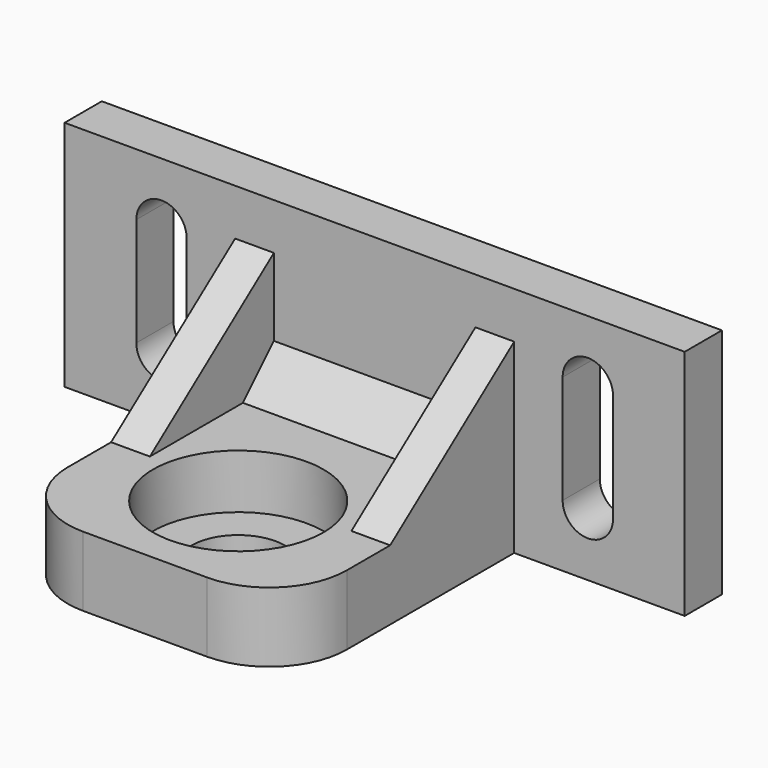
from build123d import *

# Parameters (mm, degrees)
BOX003_W        = 5
BOX003_H        = 20
BOX003_DEPTH    = 15
POCKET004_DEPTH = 5.001
BOX002_W        = 5
BOX002_H        = 20
BOX002_DEPTH    = 15
POCKET003_DEPTH = 5.001
BOX_W           = 80
BOX_H           = 6
BOX_DEPTH       = 30
POCKET002_DEPTH = 6.001
BOX001_W        = 36
BOX001_H        = 37
BOX001_DEPTH    = 9
SKETCH_R        = 11
POCKET_DEPTH    = 7
SKETCH001_R     = 6
POCKET001_DEPTH = 2.001
CHAMFER_SIZE    = 5
FILLET_R        = 10
FILLET001_R     = 10


with BuildPart() as pocket004:
    # Box003 → Box003 (new body)
    with BuildSketch(Plane(origin=(53, -20, 9), x_dir=(1, 0, 0), z_dir=(0, 0, 1))):
        with Locations((2.5, 10)):
            Rectangle(BOX003_W, BOX003_H)
    extrude(amount=BOX003_DEPTH)

    # Sketch005 → Pocket004 (cut, through all)
    with BuildSketch(Plane(origin=(58, -20, 9), x_dir=(0, 1, 0), z_dir=(1, 0, 0))):
        Polygon((0, 0), (20, 15), (0, 15), align=None)
    extrude(amount=-POCKET004_DEPTH, mode=Mode.SUBTRACT)


with BuildPart() as pocket003:
    # Box002 → Box002 (new body)
    with BuildSketch(Plane(origin=(22, -20, 9), x_dir=(1, 0, 0), z_dir=(0, 0, 1))):
        with Locations((2.5, 10)):
            Rectangle(BOX002_W, BOX002_H)
    extrude(amount=BOX002_DEPTH)

    # Sketch004 → Pocket003 (cut, through all)
    with BuildSketch(Plane(origin=(27, -20, 9), x_dir=(0, 1, 0), z_dir=(1, 0, 0))):
        Polygon((20, 15), (0, 0), (0, 15), align=None)
    extrude(amount=-POCKET003_DEPTH, mode=Mode.SUBTRACT)


with BuildPart() as pocket002:
    # Box → Box (new body)
    with BuildSketch(Plane.XY):
        with Locations((40, 3)):
            Rectangle(BOX_W, BOX_H)
    extrude(amount=BOX_DEPTH)

    # Sketch003 → Pocket002 (cut, through all)
    with BuildSketch(Plane.XZ):
        with BuildLine():
            ThreePointArc((15.75, 22), (12.5, 25.25), (9.25, 22))
            Line((9.25, 22), (9.25, 8))
            ThreePointArc((9.25, 8), (12.5, 4.75), (15.75, 8))
            Line((15.75, 22), (15.75, 8))
        make_face()
        with BuildLine():
            ThreePointArc((70.75, 22), (67.5, 25.25), (64.25, 22))
            Line((64.25, 22), (64.25, 8))
            ThreePointArc((64.25, 8), (67.5, 4.75), (70.75, 8))
            Line((70.75, 22), (70.75, 8))
        make_face()
    extrude(amount=-POCKET002_DEPTH, mode=Mode.SUBTRACT)


with BuildPart() as fillet001:
    # Box001 → Box001 (new body)
    with BuildSketch(Plane(origin=(22, -37, 0), x_dir=(1, 0, 0), z_dir=(0, 0, 1))):
        with Locations((18, 18.5)):
            Rectangle(BOX001_W, BOX001_H)
    extrude(amount=BOX001_DEPTH)

    # Sketch → Pocket (cut)
    with BuildSketch(Plane(origin=(22, -37, 9), x_dir=(1, 0, 0), z_dir=(0, 0, 1))):
        with Locations((18, 15)):
            Circle(SKETCH_R)
    extrude(amount=-POCKET_DEPTH, mode=Mode.SUBTRACT)

    # Sketch001 → Pocket001 (cut, through all)
    with BuildSketch(Plane(origin=(22, -37, 2), x_dir=(1, 0, 0), z_dir=(0, 0, 1))):
        with Locations((18, 15)):
            Circle(SKETCH001_R)
    extrude(amount=-POCKET001_DEPTH, mode=Mode.SUBTRACT)

    # Fusion: union Pocket004, Pocket003, Pocket002
    add(pocket004.part)
    add(pocket003.part)
    add(pocket002.part)

    # Chamfer
    chamfer_edges = [fillet001.edges().sort_by_distance(p)[0] for p in [
        (40, 0, 9),
    ]]
    chamfer(chamfer_edges, length=CHAMFER_SIZE)

    # Fillet
    fillet_edges = [fillet001.edges().sort_by_distance(p)[0] for p in [
        (58, -37, 4.5),
    ]]
    fillet(fillet_edges, radius=FILLET_R)

    # Fillet001
    fillet001_edges = [fillet001.edges().sort_by_distance(p)[0] for p in [
        (22, -37, 4.5),
    ]]
    fillet(fillet001_edges, radius=FILLET001_R)


solid = fillet001.part
